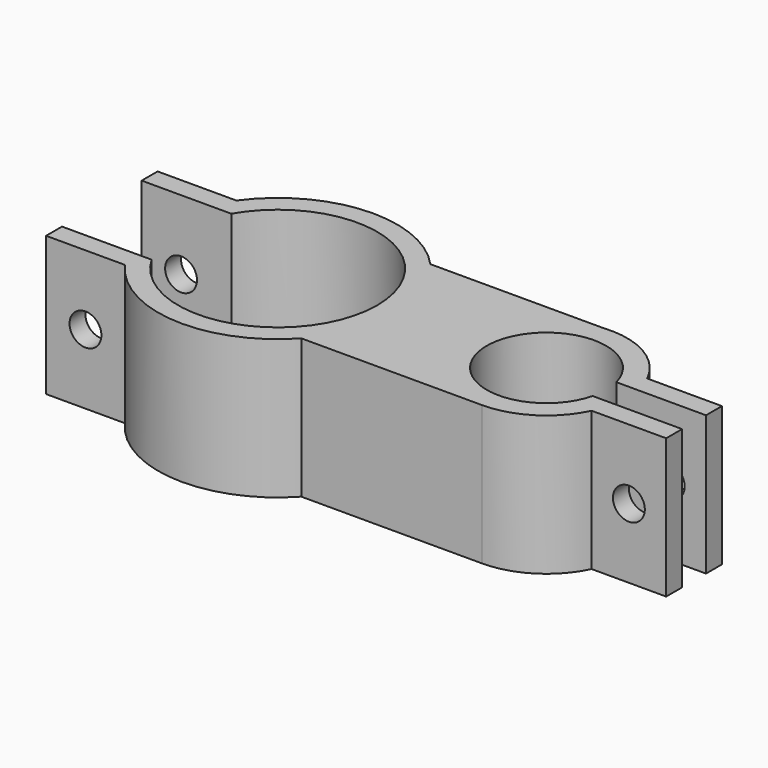
from build123d import *

# Parameters (mm, degrees)
F1_DEPTH = 14
F2_R     = 1.6
F3_DEPTH = 19.001


with BuildPart() as f1:
    # F0 (on Top) → F1 (new body)
    with BuildSketch(Plane.XY):
        with BuildLine():
            ThreePointArc((-71.979765, 36.181044), (-53.319511, 31.181044), (-71.979765, 26.181044))
            Line((-71.979765, 26.181044), (-80.979765, 26.181044))
            Line((-80.979765, 26.181044), (-80.979765, 24.181044))
            Line((-80.979765, 24.181044), (-73.066306, 24.181044))
            ThreePointArc((-73.066306, 24.181044), (-64.027928, 19.201973), (-54.465699, 23.081044))
            Line((-54.465699, 23.081044), (-36.319511, 23.081044))
            ThreePointArc((-36.319511, 23.081044), (-31.991955, 24.333982), (-29.003204, 27.705178))
            Line((-29.003204, 27.705178), (-21.516321, 27.705178))
            Line((-21.516321, 27.705178), (-21.516321, 29.705178))
            Line((-21.516321, 29.705178), (-30.503858, 29.705178))
            ThreePointArc((-30.503858, 29.705178), (-42.31946, 31.156118), (-30.516321, 32.705178))
            Line((-30.516321, 32.705178), (-21.516321, 32.705178))
            Line((-21.516321, 32.705178), (-21.516321, 34.705178))
            Line((-21.516321, 34.705178), (-29.026331, 34.705178))
            ThreePointArc((-29.026331, 34.705178), (-32.341821, 38.237103), (-37.080026, 39.245262))
            Line((-37.080026, 39.245262), (-54.433096, 39.245262))
            ThreePointArc((-54.433096, 39.245262), (-64.003765, 43.161519), (-73.066306, 38.181044))
            Line((-73.066306, 38.181044), (-80.979765, 38.181044))
            Line((-80.979765, 38.181044), (-80.979765, 36.181044))
            Line((-80.979765, 36.181044), (-71.979765, 36.181044))
        make_face()
    extrude(amount=F1_DEPTH)

    # F2 (on face) → F3 (cut, through all)
    with BuildSketch(Plane.XZ.offset(-24.181044)):
        with Locations((-77.023036, 7)):
            Circle(F2_R)
        with Locations((-25.259763, 7)):
            Circle(F2_R)
    extrude(amount=-F3_DEPTH, mode=Mode.SUBTRACT)


solid = f1.part
